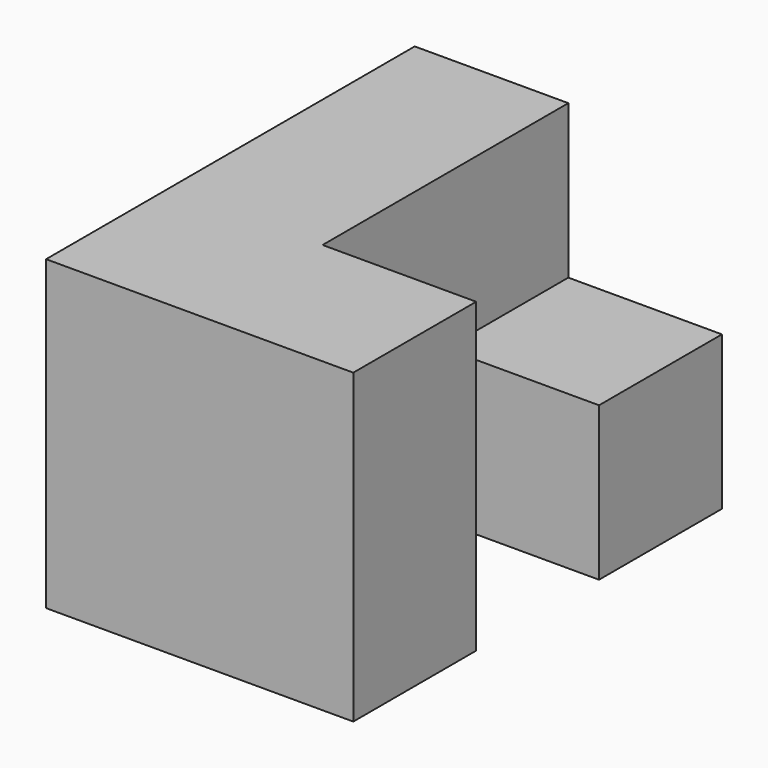
from build123d import *

# Parameters (mm, degrees)
F0_W     = 38.1
F0_H     = 25.4
F1_DEPTH = 25.4
F3_DEPTH = 12.7


with BuildPart() as f1:
    # F0 (on Right) → F1 (new body)
    with BuildSketch(Plane.YZ):
        with Locations((19.05, 12.7)):
            Rectangle(F0_W, F0_H)
    extrude(amount=F1_DEPTH)

    # F2 (on face) → F3 (cut)
    with BuildSketch(Plane.YZ.offset(25.4)):
        Polygon((12.7, 0), (25.4, 0), (25.4, 12.7), (38.1, 12.7), (38.1, 25.4), (12.7, 25.4), align=None)
    extrude(amount=-F3_DEPTH, mode=Mode.SUBTRACT)


solid = f1.part
